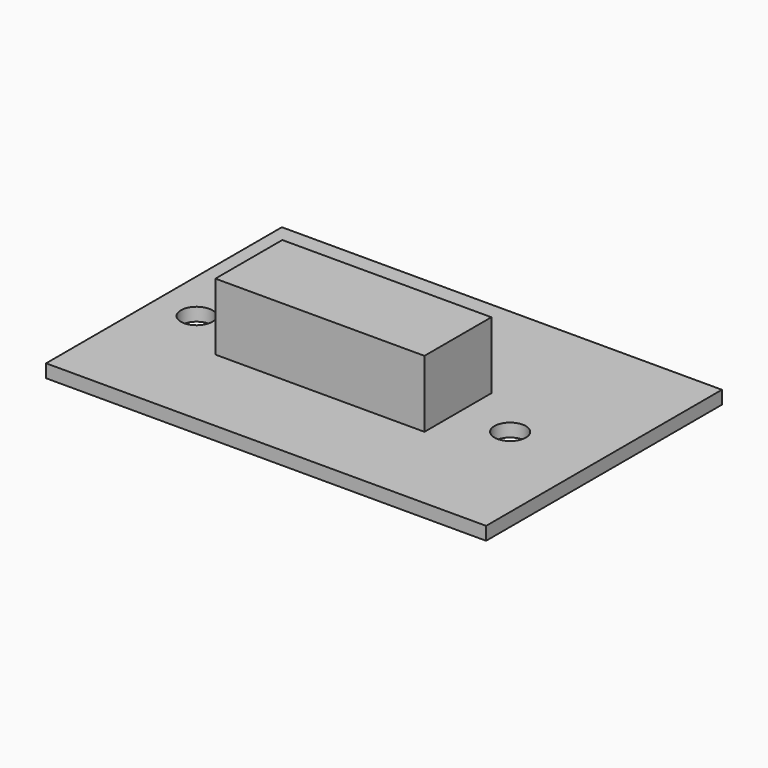
from build123d import *

# Parameters (mm, degrees)
F0_W     = 53.467
F0_H     = 35.814
F0_R     = 1.905
F1_DEPTH = 1.6002
F2_W     = 25.4
F2_H     = 10.16
F3_DEPTH = 8.128


with BuildPart() as f1:
    # F0 (on Top) → F1 (new body)
    with BuildSketch(Plane.XY):
        with Locations((2.6035, 1.397)):
            Rectangle(F0_W, F0_H)
        with Locations((-19.05, 0)):
            Circle(F0_R, mode=Mode.SUBTRACT)
        with Locations((19.05, 0)):
            Circle(F0_R, mode=Mode.SUBTRACT)
    extrude(amount=F1_DEPTH)

    # F2 (on face) → F3 (join)
    with BuildSketch(Plane.XY.offset(1.6002)):
        Rectangle(F2_W, F2_H)
    extrude(amount=F3_DEPTH)


solid = f1.part
